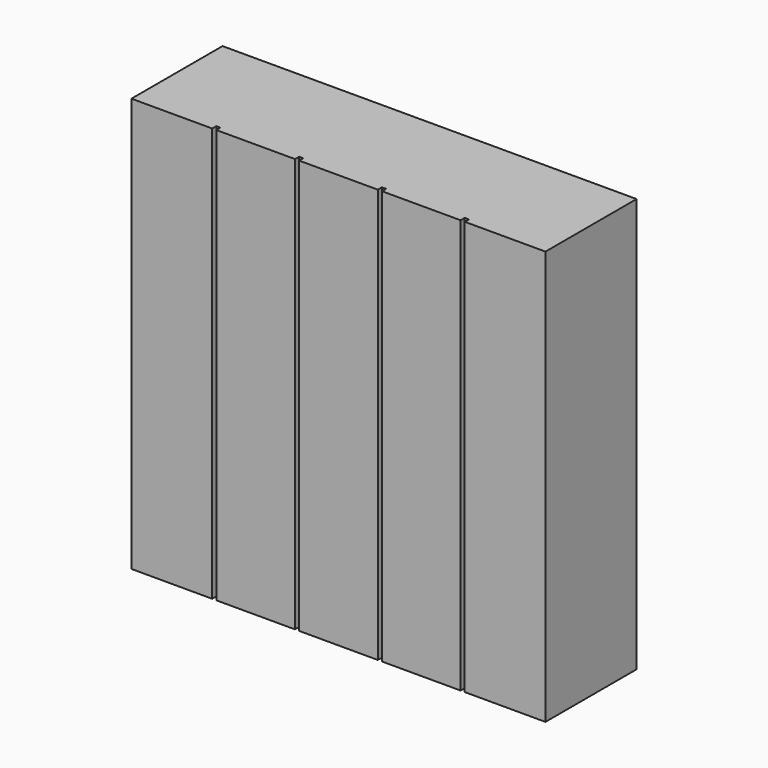
from build123d import *

# Parameters (mm, degrees)
F0_W     = 2000
F0_H     = 550
F1_DEPTH = 2000
F2_W     = 20
F2_H     = 2000
F3_DEPTH = 25


with BuildPart() as f1:
    # F0 (on Top) → F1 (new body)
    with BuildSketch(Plane.XY):
        Rectangle(F0_W, F0_H)
    extrude(amount=F1_DEPTH)

    # F2 (on face) → F3 (cut)
    with BuildSketch(Plane.XZ.offset(275)):
        with Locations((-600, 1000)):
            Rectangle(F2_W, F2_H)
        with Locations((-200, 1000)):
            Rectangle(F2_W, F2_H)
        with Locations((200, 1000)):
            Rectangle(F2_W, F2_H)
        with Locations((600, 1000)):
            Rectangle(F2_W, F2_H)
    extrude(amount=-F3_DEPTH, mode=Mode.SUBTRACT)


solid = f1.part
